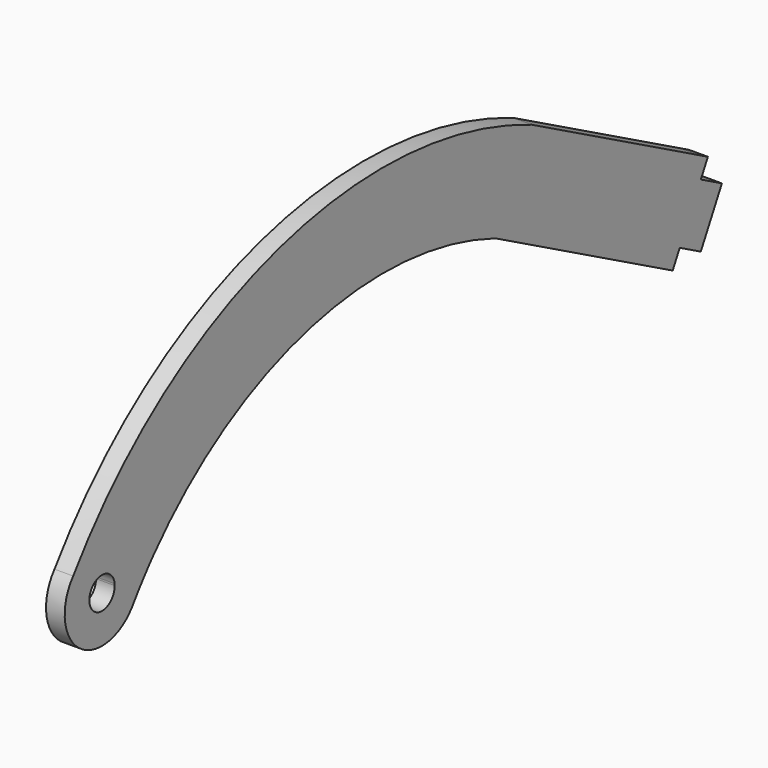
from build123d import *

# Parameters (mm, degrees)
F1_DEPTH = 5


with BuildPart() as f1:
    # F0 (on Right) → F1 (new body)
    with BuildSketch(Plane.YZ):
        Polygon((197.429787234, 17.6374349813), (190.3574468085, 4.4093587453), (193.4439979302, 2.7591459794), (200.5163383558, 15.9872222154), align=None)
        Polygon((200.5163383558, 15.9872222154), (193.4439979302, 2.7591459794), (200.4989719228, -1.0127689142), (207.5713123483, 12.2153073218), align=None)
        with BuildLine():
            ThreePointArc((10.1566064552, -7.2865180514), (10.3055236614, -7.0743326232), (10.4500087345, -6.8591047118))
            ThreePointArc((10.4500087345, -6.8591047118), (10.3030358955, -7.0726248708), (10.1566064552, -7.2865180514))
        make_face()
        with BuildLine():
            Line((15.6241422995, 0), (12.5, 0))
            ThreePointArc((12.5, 0), (11.9765418461, -3.5794476402), (10.4500087345, -6.8591047118))
            ThreePointArc((10.4500087345, -6.8591047118), (12.9647825278, -3.3750184776), (15.6241422995, 0))
        make_face()
        Polygon((155.8354490103, 17.1966543113), (188, 0), (190.3574468085, 4.4093587453), (197.429787234, 17.6374349813), (199.7872340426, 22.0467937267), align=None)
        with BuildLine():
            ThreePointArc((12.4245792315, 1.3710692616), (12.4811305657, 0.6865710474), (12.5, 0))
            Line((12.5, 0), (15.6241422995, 0))
            ThreePointArc((15.6241422995, 0), (16.4199885214, 0.9554243225), (17.2274292387, 1.9010703096))
            Line((17.2274292387, 1.9010703096), (12.4245792315, 1.3710692616))
        make_face()
        with BuildLine():
            ThreePointArc((-9.6674776629, 7.9240062871), (3.5546656917, 11.983920553), (12.4245792315, 1.3710692616))
            Line((12.4245792315, 1.3710692616), (17.2274292387, 1.9010703096))
            ThreePointArc((17.2274292387, 1.9010703096), (70.0256531638, 34.2318376632), (131.7949158181, 30.0498335425))
            Line((131.7949158181, 30.0498335425), (155.8354490103, 17.1966543113))
            Line((155.8354490103, 17.1966543113), (199.7872340426, 22.0467937267))
            Line((199.7872340426, 22.0467937267), (143.8737025797, 51.9407497218))
            ThreePointArc((143.8737025797, 51.9407497218), (59.2816268709, 57.2156351163), (-9.6674776629, 7.9240062871))
        make_face()
        with BuildLine():
            Line((12.5, 0), (4.25, 0))
            ThreePointArc((4.25, 0), (-4.2435843923, -0.2334341561), (4.2243569387, 0.4661635489))
            Line((4.2243569387, 0.4661635489), (12.4245792315, 1.3710692616))
            ThreePointArc((12.4245792315, 1.3710692616), (3.5546656917, 11.983920553), (-9.6674776629, 7.9240062871))
            ThreePointArc((-9.6674776629, 7.9240062871), (-7.6091934137, -9.9171657036), (10.1566064552, -7.2865180514))
            ThreePointArc((10.1566064552, -7.2865180514), (10.3030358955, -7.0726248708), (10.4500087345, -6.8591047118))
            ThreePointArc((10.4500087345, -6.8591047118), (11.9765418461, -3.5794476402), (12.5, 0))
        make_face()
        with BuildLine():
            ThreePointArc((4.2243569387, 0.4661635489), (4.2435843923, 0.2334341561), (4.25, 0))
            Line((4.25, 0), (12.5, 0))
            ThreePointArc((12.5, 0), (12.4811305657, 0.6865710474), (12.4245792315, 1.3710692616))
            Line((12.4245792315, 1.3710692616), (4.2243569387, 0.4661635489))
        make_face()
        Polygon((202.8737851643, 20.3965809607), (199.7872340426, 22.0467937267), (197.429787234, 17.6374349813), (200.5163383558, 15.9872222154), align=None)
        Polygon((190.3574468085, 4.4093587453), (188, 0), (191.0865511217, -1.650212766), (193.4439979302, 2.7591459794), align=None)
    extrude(amount=F1_DEPTH)


solid = f1.part
